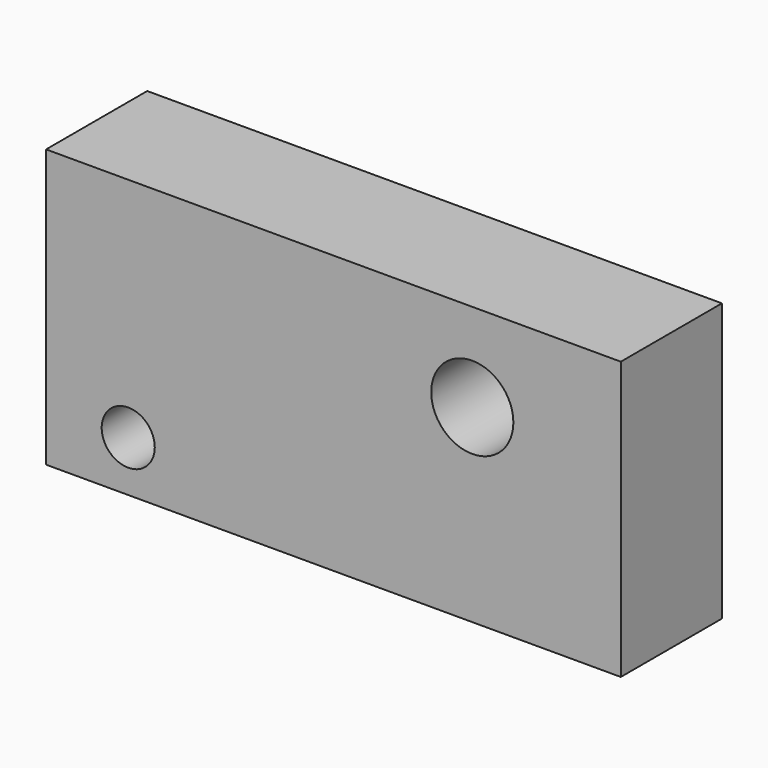
from build123d import *

# Parameters (mm, degrees)
F0_W     = 115.49313
F0_H     = 55.779966
F0_R     = 5.334
F0_R_2   = 8.255
F1_DEPTH = 12.7


with BuildPart() as f1:
    # F0 (on Front) → F1 (new body, symmetric)
    with BuildSketch(Plane.XZ):
        Rectangle(F0_W, F0_H)
        with Locations((-41.236565, -17.729983)):
            Circle(F0_R, mode=Mode.SUBTRACT)
        with Locations((27.901565, 10.109983)):
            Circle(F0_R_2, mode=Mode.SUBTRACT)
    extrude(amount=F1_DEPTH, both=True)


solid = f1.part
